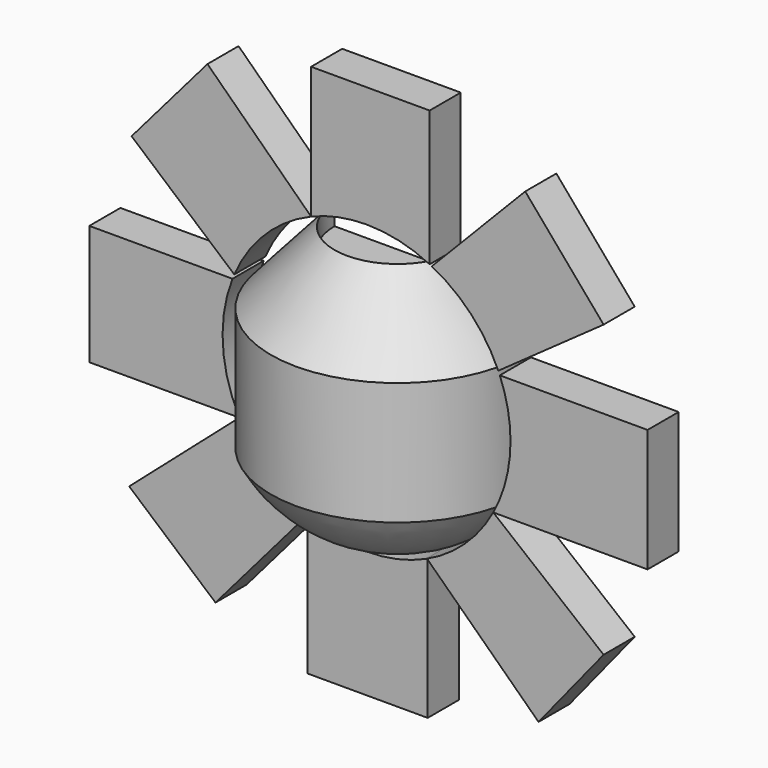
from build123d import *

# Parameters (mm, degrees)
F1_ANGLE = 180
F2_DEPTH = 2.794


with BuildPart() as f1:
    # F0 (on Front) → F1 (revolve)
    with BuildSketch(Plane.XZ):
        with BuildLine():
            Line((4.532755, 7.623271), (0, 7.623271))
            Line((0, 7.623271), (0, -9.429533))
            Line((0, -9.429533), (4.252275, -9.429533))
            ThreePointArc((4.252275, -9.429533), (7.051008, -7.568436), (9.105312, -4.908282))
            Line((9.105312, -4.908282), (9.105312, 3.914652))
            Line((9.105312, 3.914652), (4.532755, 9.064328))
            Line((4.532755, 9.064328), (4.532755, 7.623271))
        make_face()
    revolve(axis=Axis((0, 0, 0), (0, 0, -1)), revolution_arc=F1_ANGLE)


with BuildPart() as f2:
    # F0 (on Front) → F2 (new body)
    with BuildSketch(Plane.XZ):
        with BuildLine():
            Line((-10.851142, -17.10085), (-4.252275, -9.429533))
            ThreePointArc((-4.252275, -9.429533), (-7.075713, -7.545344), (-9.13721, -4.848643))
            Line((-9.13721, -4.848643), (-17.051933, -11.76693))
            Line((-17.051933, -11.76693), (-10.851142, -17.10085))
        make_face()
        with BuildLine():
            ThreePointArc((-9.13721, -4.848643), (-10.327167, -0.589549), (-9.62964, 3.777296))
            Line((-9.62964, 3.777296), (-19.916654, 3.777296))
            Line((-19.916654, 3.777296), (-19.916654, -4.848643))
            Line((-19.916654, -4.848643), (-9.13721, -4.848643))
        make_face()
        with BuildLine():
            ThreePointArc((-9.50096, 4.090194), (-7.273148, 7.35522), (-3.983331, 9.546256))
            Line((-3.983331, 9.546256), (-11.428404, 16.773274))
            Line((-11.428404, 16.773274), (-16.87903, 10.43681))
            Line((-16.87903, 10.43681), (-9.50096, 4.090194))
        make_face()
        with BuildLine():
            ThreePointArc((-3.983331, 9.546256), (-2.031212, 10.142589), (0, 10.343981))
            ThreePointArc((0, 10.343981), (2.325942, 10.079084), (4.532755, 9.297961))
            Line((4.532755, 9.297961), (4.532755, 19.023838))
            Line((4.532755, 19.023838), (-3.983331, 19.023838))
            Line((-3.983331, 19.023838), (-3.983331, 9.546256))
        make_face()
        with BuildLine():
            Line((11.400566, 16.139356), (4.685663, 9.221849))
            ThreePointArc((4.685663, 9.221849), (7.512964, 7.110085), (9.465854, 4.170798))
            Line((9.465854, 4.170798), (17.032173, 9.546256))
            Line((17.032173, 9.546256), (11.400566, 16.139356))
        make_face()
        with BuildLine():
            Line((20.191364, 3.914652), (9.574625, 3.914652))
            ThreePointArc((9.574625, 3.914652), (10.149819, 1.994769), (10.343981, 0))
            ThreePointArc((10.343981, 0), (10.029534, -2.531083), (9.105312, -4.908282))
            Line((9.105312, -4.908282), (20.191364, -4.908282))
            Line((20.191364, -4.908282), (20.191364, 3.914652))
        make_face()
        with BuildLine():
            ThreePointArc((9.105312, -4.908282), (7.051008, -7.568436), (4.252275, -9.429533))
            Line((4.252275, -9.429533), (4.395399, -9.429533))
            Line((4.395399, -9.429533), (12.35724, -17.10085))
            Line((12.35724, -17.10085), (17.032173, -11.331889))
            Line((17.032173, -11.331889), (9.105312, -4.908282))
        make_face()
        with BuildLine():
            Line((4.395399, -9.429533), (4.252275, -9.429533))
            ThreePointArc((4.252275, -9.429533), (2.174745, -10.112785), (0, -10.343981))
            ThreePointArc((0, -10.343981), (-2.174745, -10.112785), (-4.252275, -9.429533))
            Line((-4.252275, -9.429533), (-4.252275, -19.435907))
            Line((-4.252275, -19.435907), (4.395399, -19.435907))
            Line((4.395399, -19.435907), (4.395399, -9.429533))
        make_face()
    extrude(amount=F2_DEPTH)


solid = Compound([f1.part, f2.part])
